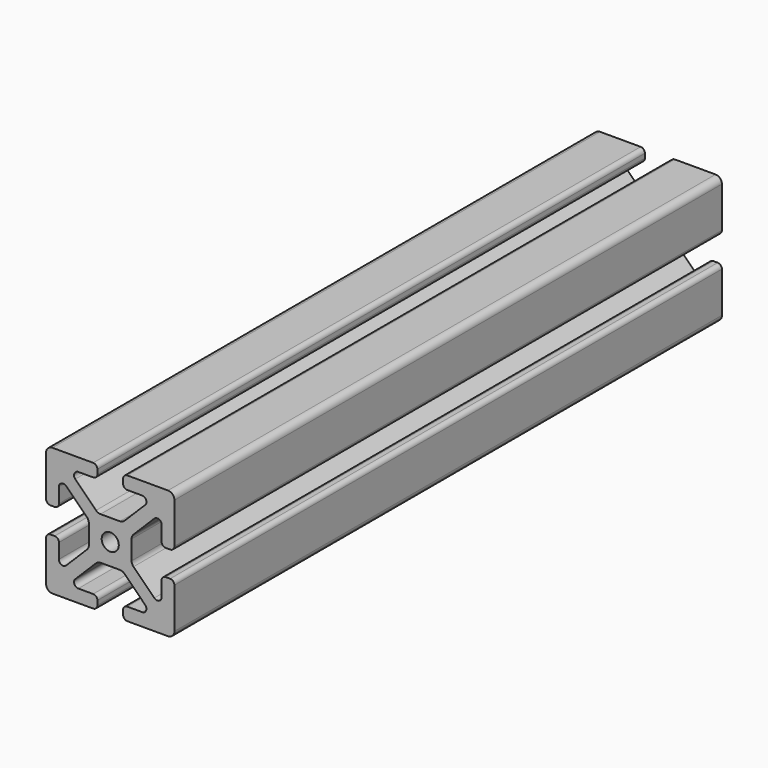
from build123d import *

# Parameters (mm, degrees)
F0_R     = 2
F1_DEPTH = 160


with BuildPart() as f1:
    # F0 (on Front) → F1 (new body)
    with BuildSketch(Plane.XZ):
        with BuildLine():
            ThreePointArc((15, 13.5), (14.56066, 14.56066), (13.5, 15))
            Line((13.5, 15), (4, 15))
            ThreePointArc((4, 15), (3.292893, 14.707107), (3, 14))
            Line((3, 14), (3, 13))
            ThreePointArc((3, 13), (3.292893, 12.292893), (4, 12))
            Line((4, 12), (7.464466, 12))
            ThreePointArc((7.464466, 12), (8.388346, 11.382683), (8.171573, 10.292893))
            Line((8.171573, 10.292893), (3.318019, 5.43934))
            ThreePointArc((3.318019, 5.43934), (2.831384, 5.114181), (2.257359, 5))
            Line((2.257359, 5), (-2.257359, 5))
            ThreePointArc((-2.257359, 5), (-2.831384, 5.114181), (-3.318019, 5.43934))
            Line((-3.318019, 5.43934), (-8.171573, 10.292893))
            ThreePointArc((-8.171573, 10.292893), (-8.388346, 11.382683), (-7.464466, 12))
            Line((-7.464466, 12), (-4, 12))
            ThreePointArc((-4, 12), (-3.292893, 12.292893), (-3, 13))
            Line((-3, 13), (-3, 14))
            ThreePointArc((-3, 14), (-3.292893, 14.707107), (-4, 15))
            Line((-4, 15), (-13.5, 15))
            ThreePointArc((-13.5, 15), (-14.56066, 14.56066), (-15, 13.5))
            Line((-15, 13.5), (-15, 4))
            ThreePointArc((-15, 4), (-14.707107, 3.292893), (-14, 3))
            Line((-14, 3), (-13, 3))
            ThreePointArc((-13, 3), (-12.292893, 3.292893), (-12, 4))
            Line((-12, 4), (-12, 7.464466))
            ThreePointArc((-12, 7.464466), (-11.382683, 8.388346), (-10.292893, 8.171573))
            Line((-10.292893, 8.171573), (-5.43934, 3.318019))
            ThreePointArc((-5.43934, 3.318019), (-5.114181, 2.831384), (-5, 2.257359))
            Line((-5, 2.257359), (-5, -2.257359))
            ThreePointArc((-5, -2.257359), (-5.114181, -2.831384), (-5.43934, -3.318019))
            Line((-5.43934, -3.318019), (-10.292893, -8.171573))
            ThreePointArc((-10.292893, -8.171573), (-11.382683, -8.388346), (-12, -7.464466))
            Line((-12, -7.464466), (-12, -4))
            ThreePointArc((-12, -4), (-12.292893, -3.292893), (-13, -3))
            Line((-13, -3), (-14, -3))
            ThreePointArc((-14, -3), (-14.707107, -3.292893), (-15, -4))
            Line((-15, -4), (-15, -13.5))
            ThreePointArc((-15, -13.5), (-14.56066, -14.56066), (-13.5, -15))
            Line((-13.5, -15), (-4, -15))
            ThreePointArc((-4, -15), (-3.292893, -14.707107), (-3, -14))
            Line((-3, -14), (-3, -13))
            ThreePointArc((-3, -13), (-3.292893, -12.292893), (-4, -12))
            Line((-4, -12), (-7.464466, -12))
            ThreePointArc((-7.464466, -12), (-8.388346, -11.382683), (-8.171573, -10.292893))
            Line((-8.171573, -10.292893), (-3.318019, -5.43934))
            ThreePointArc((-3.318019, -5.43934), (-2.831384, -5.114181), (-2.257359, -5))
            Line((-2.257359, -5), (2.257359, -5))
            ThreePointArc((2.257359, -5), (2.831384, -5.114181), (3.318019, -5.43934))
            Line((3.318019, -5.43934), (8.171573, -10.292893))
            ThreePointArc((8.171573, -10.292893), (8.388346, -11.382683), (7.464466, -12))
            Line((7.464466, -12), (4, -12))
            ThreePointArc((4, -12), (3.292893, -12.292893), (3, -13))
            Line((3, -13), (3, -14))
            ThreePointArc((3, -14), (3.292893, -14.707107), (4, -15))
            Line((4, -15), (13.5, -15))
            ThreePointArc((13.5, -15), (14.56066, -14.56066), (15, -13.5))
            Line((15, -13.5), (15, -4))
            ThreePointArc((15, -4), (14.707107, -3.292893), (14, -3))
            Line((14, -3), (13, -3))
            ThreePointArc((13, -3), (12.292893, -3.292893), (12, -4))
            Line((12, -4), (12, -7.464466))
            ThreePointArc((12, -7.464466), (11.382683, -8.388346), (10.292893, -8.171573))
            Line((10.292893, -8.171573), (5.43934, -3.318019))
            ThreePointArc((5.43934, -3.318019), (5.114181, -2.831384), (5, -2.257359))
            Line((5, -2.257359), (5, 2.257359))
            ThreePointArc((5, 2.257359), (5.114181, 2.831384), (5.43934, 3.318019))
            Line((5.43934, 3.318019), (10.292893, 8.171573))
            ThreePointArc((10.292893, 8.171573), (11.382683, 8.388346), (12, 7.464466))
            Line((12, 7.464466), (12, 4))
            ThreePointArc((12, 4), (12.292893, 3.292893), (13, 3))
            Line((13, 3), (14, 3))
            ThreePointArc((14, 3), (14.707107, 3.292893), (15, 4))
            Line((15, 4), (15, 13.5))
        make_face()
        Circle(F0_R, mode=Mode.SUBTRACT)
    extrude(amount=-F1_DEPTH)


solid = f1.part
